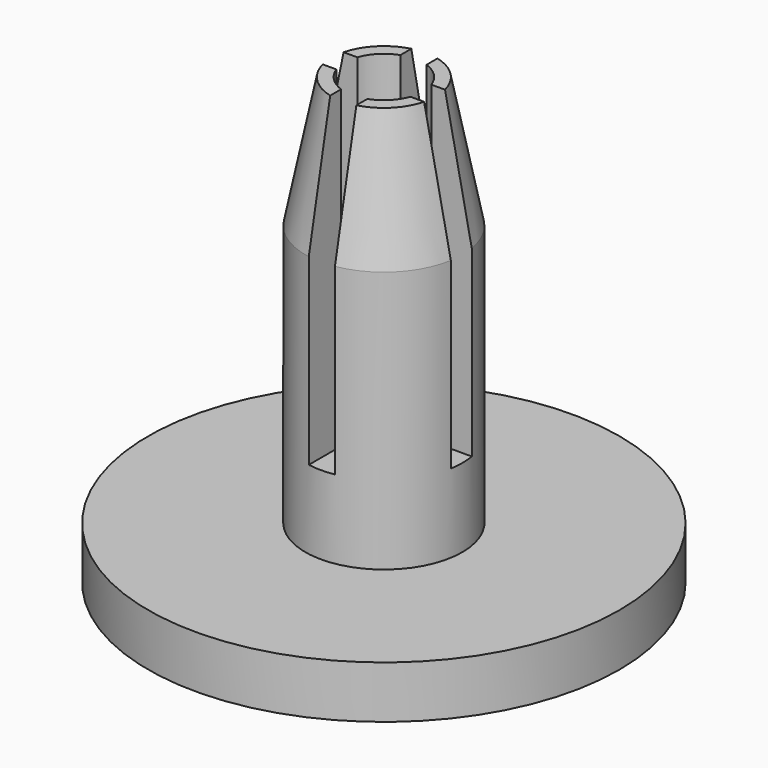
from build123d import *

# Parameters (mm, degrees)
F0_R     = 9
F0_R_2   = 1.45
F1_DEPTH = 2
F2_R     = 3
F2_R_2   = 1.5
F3_DEPTH = 15
F5_SIZE2 = 5
F5_SIZE  = 1
F6_DEPTH = 12


with BuildPart() as f1:
    # F0 (on Top) → F1 (new body)
    with BuildSketch(Plane.XY):
        with Locations((-40.0538817048, 19.144397229)):
            Circle(F0_R)
        with Locations((-40.0538817048, 19.144397229)):
            Circle(F0_R_2, mode=Mode.SUBTRACT)
    extrude(amount=F1_DEPTH)

    # F2 (on face) → F3 (join)
    with BuildSketch(Plane.XY.offset(2)):
        with Locations((-40.0538817048, 19.144397229)):
            Circle(F2_R)
        with Locations((-40.0538817048, 19.144397229)):
            Circle(F2_R_2, mode=Mode.SUBTRACT)
    extrude(amount=F3_DEPTH)

    # F5
    f5_edges = [f1.edges().sort_by_distance(p)[0] for p in [
        (-43.053882, 19.144397, 17),
    ]]
    f5_side = f1.faces().sort_by_distance((-42.969029, 19.144397, 17))[0]
    chamfer(f5_edges, length=F5_SIZE, length2=F5_SIZE2, reference=f5_side)

    # F4 (on face) → F6 (cut)
    with BuildSketch(Plane.XY.offset(17)):
        Polygon((-40.5538817048, 19.644397229), (-40.0538817048, 19.644397229), (-39.5538817048, 19.644397229), (-39.5538817048, 23.144397229), (-40.0538817048, 23.144397229), (-40.5538817048, 23.144397229), align=None)
        Polygon((-39.5538817048, 19.644397229), (-40.0538817048, 19.644397229), (-40.5538817048, 19.644397229), (-40.5538817048, 19.144397229), (-40.5538817048, 18.644397229), (-40.0538817048, 18.644397229), (-39.5538817048, 18.644397229), (-39.5538817048, 19.144397229), align=None)
        Polygon((-36.0538817048, 19.644397229), (-39.5538817048, 19.644397229), (-39.5538817048, 19.144397229), (-39.5538817048, 18.644397229), (-36.0538817048, 18.644397229), (-36.0538817048, 19.144397229), align=None)
        Polygon((-40.5538817048, 19.144397229), (-40.5538817048, 19.644397229), (-44.0538817048, 19.644397229), (-44.0538817048, 19.144397229), (-44.0538817048, 18.644397229), (-40.5538817048, 18.644397229), align=None)
        Polygon((-39.5538817048, 15.144397229), (-39.5538817048, 18.644397229), (-40.0538817048, 18.644397229), (-40.5538817048, 18.644397229), (-40.5538817048, 15.144397229), (-40.0538817048, 15.144397229), align=None)
    extrude(amount=-F6_DEPTH, mode=Mode.SUBTRACT)


solid = f1.part
